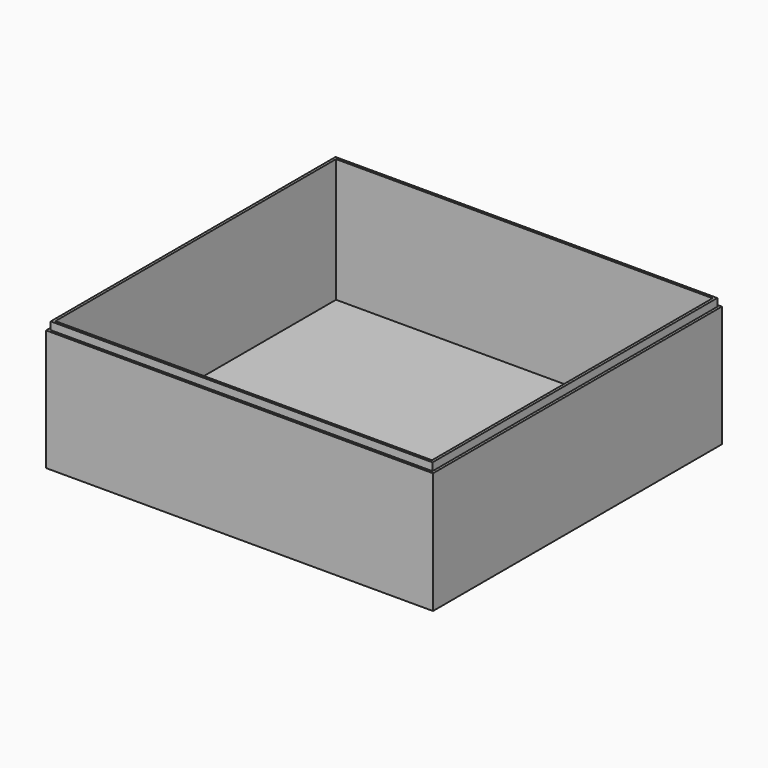
from build123d import *

# Parameters (mm, degrees)
F0_W     = 150
F0_H     = 140
F1_DEPTH = 47
F2_W     = 146
F2_H     = 136
F3_DEPTH = 45
F4_W     = 150
F4_H     = 140
F4_W_2   = 146
F4_H_2   = 136
F5_DEPTH = 3
F6_W     = 150
F6_H     = 140
F6_W_2   = 148
F6_H_2   = 138
F7_DEPTH = 3


with BuildPart() as f1:
    # F0 (on Top) → F1 (new body)
    with BuildSketch(Plane.XY):
        with Locations((77.499742, 70)):
            Rectangle(F0_W, F0_H)
    extrude(amount=F1_DEPTH)

    # F2 (on face) → F3 (cut)
    with BuildSketch(Plane.XY.offset(47)):
        with Locations((77.499742, 70)):
            Rectangle(F2_W, F2_H)
    extrude(amount=-F3_DEPTH, mode=Mode.SUBTRACT)

    # F4 (on face) → F5 (join)
    with BuildSketch(Plane.XY.offset(47)):
        with Locations((77.499742, 70)):
            Rectangle(F4_W, F4_H)
        with Locations((77.499742, 70)):
            Rectangle(F4_W_2, F4_H_2, mode=Mode.SUBTRACT)
    extrude(amount=F5_DEPTH)

    # F6 (on face) → F7 (cut)
    with BuildSketch(Plane.XY.offset(50)):
        with Locations((77.499742, 70)):
            Rectangle(F6_W, F6_H)
        with Locations((77.499742, 70)):
            Rectangle(F6_W_2, F6_H_2, mode=Mode.SUBTRACT)
    extrude(amount=-F7_DEPTH, mode=Mode.SUBTRACT)


solid = f1.part
